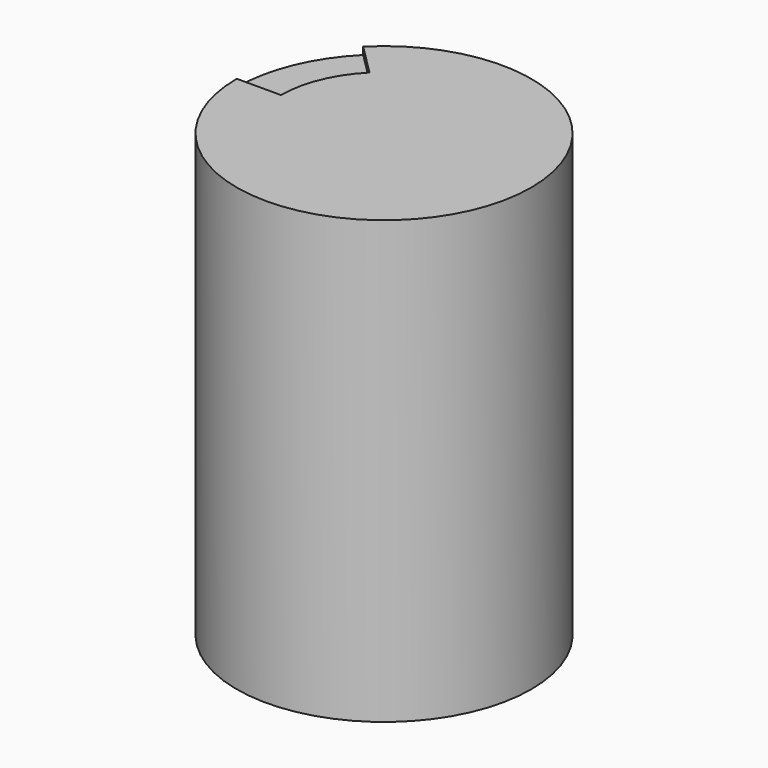
from build123d import *

# Parameters (mm, degrees)
F0_R     = 10
F1_DEPTH = 30
F2_W     = 3
F2_H     = 0.5
F3_ANGLE = -45


with BuildPart() as f1:
    # F0 (on Top) → F1 (new body)
    with BuildSketch(Plane.XY):
        Circle(F0_R)
    extrude(amount=F1_DEPTH)

    # F2 (on Front) → F3 (revolve, cut)
    with BuildSketch(Plane.XZ):
        with Locations((-8.5, 29.75)):
            Rectangle(F2_W, F2_H)
    revolve(axis=Axis((0, 0, 30.297637), (0, 0, 1)), revolution_arc=F3_ANGLE, mode=Mode.SUBTRACT)


solid = f1.part
